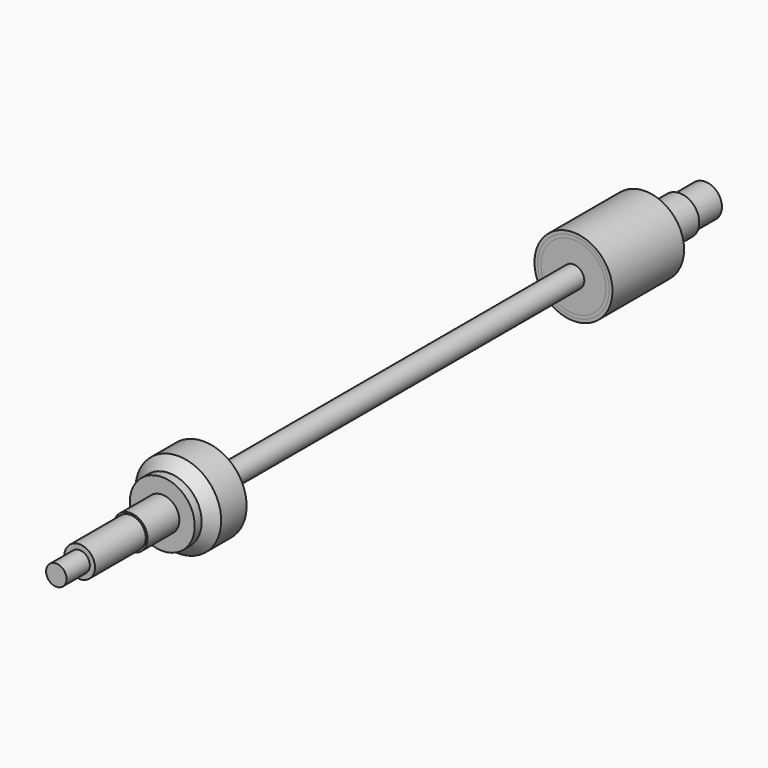
from build123d import *


with BuildPart() as f1:
    # F0 (on Right) → F1 (revolve)
    with BuildSketch(Plane.YZ):
        with BuildLine():
            Line((-217.4875, 0), (217.4875, 0))
            ThreePointArc((217.4875, 0), (209.118076, 20.205576), (188.9125, 28.575))
            Line((188.9125, 28.575), (188.9125, 9.525))
            Line((188.9125, 9.525), (-217.4875, 9.525))
            Line((-217.4875, 9.525), (-217.4875, 31.75))
            ThreePointArc((-217.4875, 31.75), (-239.93814, 22.45064), (-249.2375, 0))
            Line((-249.2375, 0), (-217.4875, 0))
        make_face()
    revolve(axis=Axis((0, 0, 0), (0, -1, 0)))


with BuildPart() as f3:
    # F2 (on Right) → F3 (revolve)
    with BuildSketch(Plane.YZ):
        with BuildLine():
            Line((-217.4875, 31.75), (-217.4875, 37.719))
            Line((-217.4875, 37.719), (-245.4275, 37.719))
            Line((-245.4275, 37.719), (-255.46083, 28.575))
            Line((-255.46083, 28.575), (-263.08083, 28.575))
            Line((-263.08083, 28.575), (-263.08083, 15.0114))
            Line((-263.08083, 15.0114), (-298.00583, 15.0114))
            Line((-298.00583, 15.0114), (-298.00583, 13.4874))
            Line((-298.00583, 13.4874), (-353.88583, 13.4874))
            Line((-353.88583, 13.4874), (-353.88583, 8.9916))
            Line((-353.88583, 8.9916), (-379.53983, 8.9916))
            Line((-379.53983, 8.9916), (-379.53983, 0))
            Line((-379.53983, 0), (-249.2375, 0))
            ThreePointArc((-249.2375, 0), (-239.93814, 22.45064), (-217.4875, 31.75))
        make_face()
    revolve(axis=Axis((0, -314.388665, 0), (0, 1, 0)))


with BuildPart() as f5:
    # F4 (on Right) → F5 (revolve)
    with BuildSketch(Plane.YZ):
        Polygon((188.9125, 34.29), (188.9125, 31.4325), (228.2825, 31.4325), (243.2825, 31.4325), (243.2825, 0), (333.6925, 0), (333.6925, 14.732), (305.7525, 14.732), (305.7525, 17.145), (267.6525, 17.145), (267.6525, 34.29), align=None)
    revolve(axis=Axis((0, 275.59, 0), (0, -1, 0)))


with BuildPart() as f6:
    # F4 (on Right) → F6 (revolve)
    with BuildSketch(Plane.YZ):
        with BuildLine():
            Line((188.9125, 31.4325), (188.9125, 28.575))
            ThreePointArc((188.9125, 28.575), (209.118076, 20.205576), (217.4875, 0))
            Line((217.4875, 0), (228.2825, 0))
            Line((228.2825, 0), (228.2825, 31.4325))
            Line((228.2825, 31.4325), (188.9125, 31.4325))
        make_face()
    revolve(axis=Axis((0, 275.59, 0), (0, -1, 0)))


solid = Compound([f1.part, f3.part, f5.part, f6.part])
